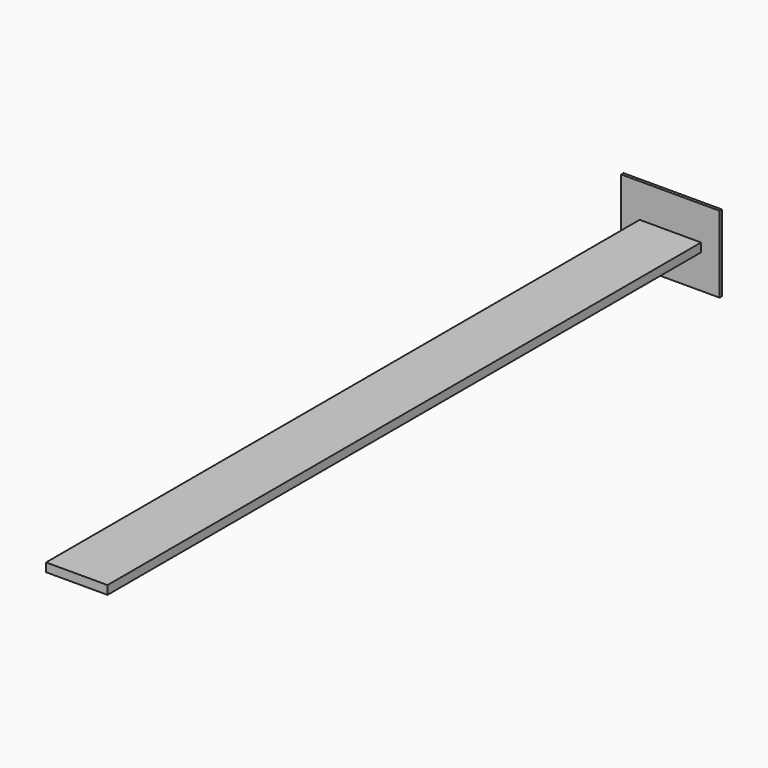
from build123d import *

# Parameters (mm, degrees)
F0_W     = 66.294
F0_H     = 51.55671
F1_DEPTH = 2
F2_W     = 41.402
F2_H     = 5.83671
F3_DEPTH = 500


with BuildPart() as f1:
    # F0 (on Front) → F1 (new body)
    with BuildSketch(Plane.XZ):
        Rectangle(F0_W, F0_H)
    extrude(amount=F1_DEPTH)


with BuildPart() as f3:
    # F2 (on face) → F3 (new body)
    with BuildSketch(Plane.XZ.offset(2)):
        Rectangle(F2_W, F2_H)
    extrude(amount=F3_DEPTH)


solid = Compound([f1.part, f3.part])
